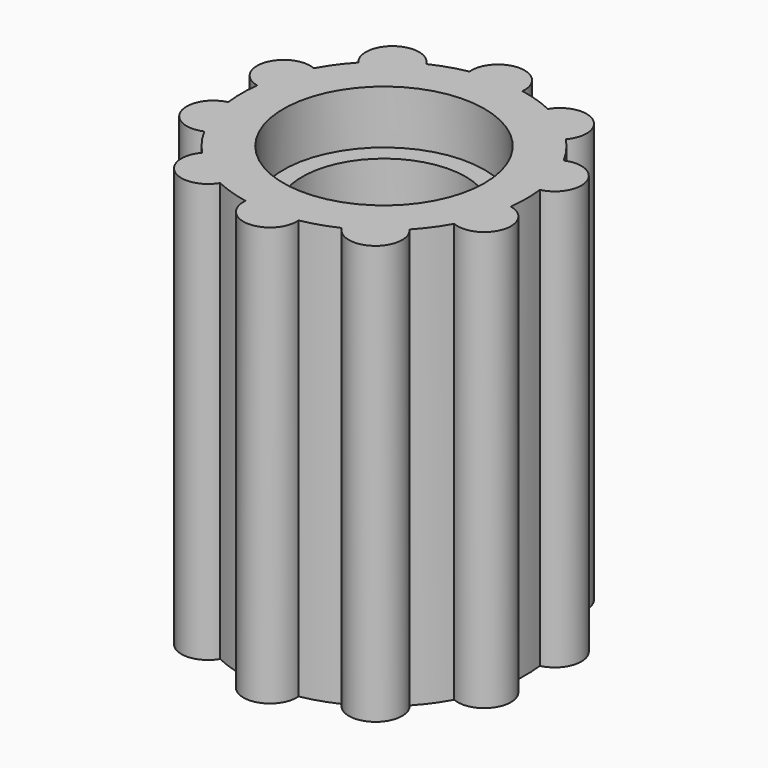
from build123d import *

# Parameters (mm, degrees)
F0_R     = 8.5
F1_DEPTH = 25
F2_R     = 2.825
F3_DEPTH = 22
F4_R     = 4.875
F5_DEPTH = 6.5
F6_R     = 6
F7_DEPTH = 3.2
F8_R     = 1.5875
F9_DEPTH = 25


with BuildPart() as f1:
    # F0 (on Top) → F1 (new body)
    with BuildSketch(Plane.XY):
        Circle(F0_R)
    extrude(amount=F1_DEPTH)

    # F2 (on face) → F3 (cut)
    with BuildSketch(Plane.XY.offset(25)):
        Circle(F2_R)
    extrude(amount=-F3_DEPTH, mode=Mode.SUBTRACT)

    # F4 (on face) → F5 (cut)
    with BuildSketch(Plane.XY.offset(25)):
        Circle(F4_R)
    extrude(amount=-F5_DEPTH, mode=Mode.SUBTRACT)

    # F6 (on face) → F7 (cut)
    with BuildSketch(Plane.XY.offset(25)):
        Circle(F6_R)
    extrude(amount=-F7_DEPTH, mode=Mode.SUBTRACT)

    # F8 (on Top) → F9 (join)
    with BuildSketch(Plane.XY):
        with Locations((0, -8.5)):
            Circle(F8_R)
        with Locations((4.996175, -6.876644)):
            Circle(F8_R)
        with Locations((8.08398, -2.626644)):
            Circle(F8_R)
        with Locations((8.08398, 2.626644)):
            Circle(F8_R)
        with Locations((4.996175, 6.876644)):
            Circle(F8_R)
        with Locations((0, 8.5)):
            Circle(F8_R)
        with Locations((-4.996175, 6.876644)):
            Circle(F8_R)
        with Locations((-8.08398, 2.626644)):
            Circle(F8_R)
        with Locations((-8.08398, -2.626644)):
            Circle(F8_R)
        with Locations((-4.996175, -6.876644)):
            Circle(F8_R)
    extrude(amount=F9_DEPTH)


solid = f1.part
